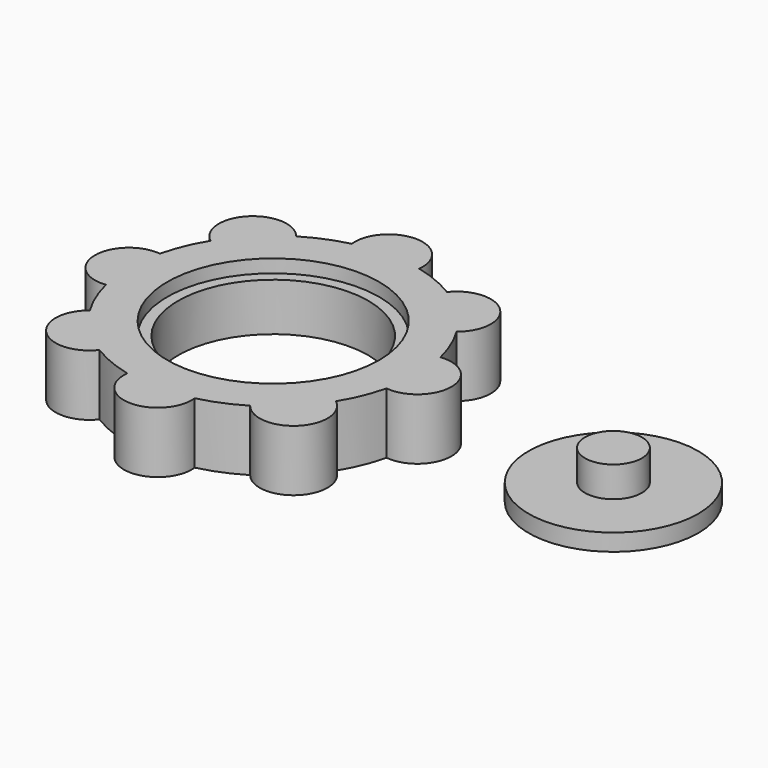
from build123d import *

# Parameters (mm, degrees)
F0_R      = 4.6625
F1_DEPTH  = 7.2
F0_R_2    = 11.2125
F2_R      = 12.4825
F2_R_2    = 11.2125
F3_DEPTH  = 1.55
F4_R      = 5.8
F5_DEPTH  = 1
F6_DEPTH  = 8.4
F7_R      = 3.5
F8_DEPTH  = 25
F9_R      = 10
F9_R_2    = 3.35
F10_DEPTH = 1
F11_DEPTH = 4.6
F12_DEPTH = 1
F13_DEPTH = 1


with BuildPart() as f1:
    # F0 (on Top) → F1 (new body)
    with BuildSketch(Plane.XY):
        Circle(F0_R)
    extrude(amount=F1_DEPTH)

    # F4 (on Top) → F5 (join)
    with BuildSketch(Plane.XY):
        Circle(F4_R)
    extrude(amount=F5_DEPTH)

    # F0 (on Top) → F6 (join)
    with BuildSketch(Plane.XY):
        Circle(F0_R)
    extrude(amount=F6_DEPTH)

    # F7 (on face) → F8 (cut)
    with BuildSketch(Plane.XY.offset(8.4)):
        Circle(F7_R)
    extrude(amount=-F8_DEPTH, mode=Mode.SUBTRACT)

    # F12 (add): a face of the model
    f12_faces = [f1.faces().sort_by_distance(p)[0] for p in [
        (-5.6359512268, 0, 0),
    ]]
    extrude(f12_faces, amount=F12_DEPTH)


with BuildPart() as f1b:
    # F0 (on Top) → F1, piece 2 (new body)
    with BuildSketch(Plane.XY):
        with BuildLine():
            ThreePointArc((-8.8792741158, 14.4968441799), (-14.8492424049, 14.8492424049), (-14.4968441799, 8.8792741158))
            ThreePointArc((-14.4968441799, 8.8792741158), (-15.7059520527, 6.5056183502), (-16.5294117647, 3.9722218861))
            ThreePointArc((-16.5294117647, 3.9722218861), (-21, 0), (-16.5294117647, -3.9722218861))
            ThreePointArc((-16.5294117647, -3.9722218861), (-15.7059520527, -6.5056183502), (-14.4968441799, -8.8792741158))
            ThreePointArc((-14.4968441799, -8.8792741158), (-14.8492424049, -14.8492424049), (-8.8792741158, -14.4968441799))
            ThreePointArc((-8.8792741158, -14.4968441799), (-6.5056183502, -15.7059520527), (-3.9722218861, -16.5294117647))
            ThreePointArc((-3.9722218861, -16.5294117647), (0, -21), (3.9722218861, -16.5294117647))
            ThreePointArc((3.9722218861, -16.5294117647), (6.5056183502, -15.7059520527), (8.8792741158, -14.4968441799))
            ThreePointArc((8.8792741158, -14.4968441799), (14.8492424049, -14.8492424049), (14.4968441799, -8.8792741158))
            ThreePointArc((14.4968441799, -8.8792741158), (15.7059520527, -6.5056183502), (16.5294117647, -3.9722218861))
            ThreePointArc((16.5294117647, -3.9722218861), (21, 0), (16.5294117647, 3.9722218861))
            ThreePointArc((16.5294117647, 3.9722218861), (15.7059520527, 6.5056183502), (14.4968441799, 8.8792741158))
            ThreePointArc((14.4968441799, 8.8792741158), (14.8492424049, 14.8492424049), (8.8792741158, 14.4968441799))
            ThreePointArc((8.8792741158, 14.4968441799), (6.5056183502, 15.7059520527), (3.9722218861, 16.5294117647))
            ThreePointArc((3.9722218861, 16.5294117647), (0, 21), (-3.9722218861, 16.5294117647))
            ThreePointArc((-3.9722218861, 16.5294117647), (-6.5056183502, 15.7059520527), (-8.8792741158, 14.4968441799))
        make_face()
        Circle(F0_R_2, mode=Mode.SUBTRACT)
    extrude(amount=F1_DEPTH)

    # F2 (on face) → F3 (cut)
    with BuildSketch(Plane.XY.offset(7.2)):
        Circle(F2_R)
        Circle(F2_R_2, mode=Mode.SUBTRACT)
    extrude(amount=-F3_DEPTH, mode=Mode.SUBTRACT)


with BuildPart() as f10:
    # F9 (on Top) → F10 (new body)
    with BuildSketch(Plane.XY):
        with Locations((37.0909944177, 3.7411744706)):
            Circle(F9_R)
        with Locations((37.0909944177, 3.7411744706)):
            Circle(F9_R_2, mode=Mode.SUBTRACT)
    extrude(amount=F10_DEPTH)

    # F9 (on Top) → F11 (join)
    with BuildSketch(Plane.XY):
        with Locations((37.0909944177, 3.7411744706)):
            Circle(F9_R_2)
    extrude(amount=F11_DEPTH)

    # F9 (on Top) → F13 (join)
    with BuildSketch(Plane.XY):
        with Locations((37.0909944177, 3.7411744706)):
            Circle(F9_R)
        with Locations((37.0909944177, 3.7411744706)):
            Circle(F9_R_2, mode=Mode.SUBTRACT)
        with Locations((37.0909944177, 3.7411744706)):
            Circle(F9_R_2)
    extrude(amount=-F13_DEPTH)


solid = Compound([f1b.part, f10.part])
